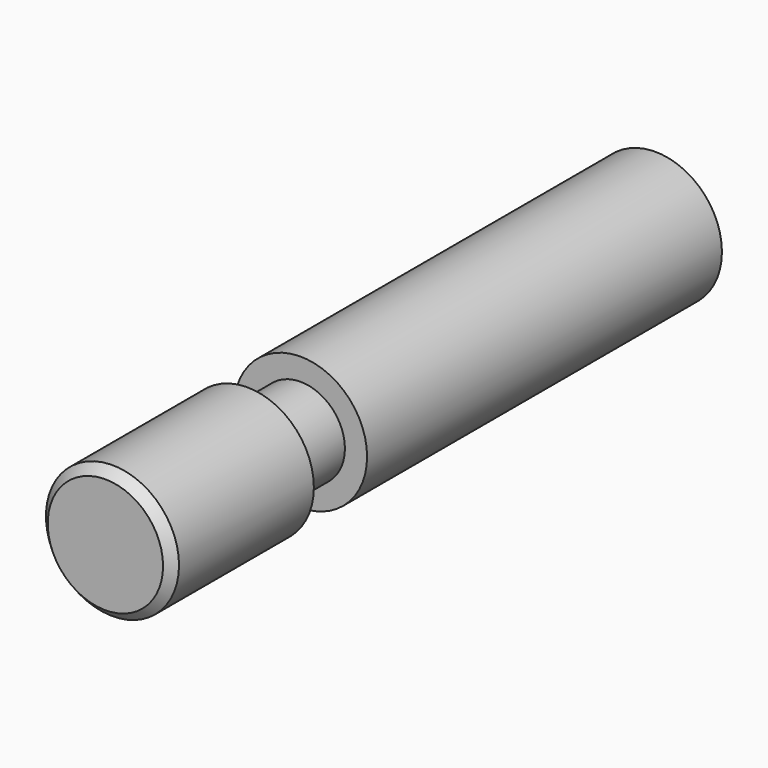
from build123d import *

# Parameters (mm, degrees)
F0_R     = 3
F1_DEPTH = 10
F2_R     = 2
F3_DEPTH = 3
F4_R     = 3
F5_DEPTH = 8
F6_SIZE  = 0.4


with BuildPart() as f1:
    # F0 (on Front) → F1 (new body, symmetric)
    with BuildSketch(Plane.XZ):
        Circle(F0_R)
    extrude(amount=F1_DEPTH, both=True)

    # F2 (on face) → F3 (join)
    with BuildSketch(Plane.XZ.offset(10)):
        Circle(F2_R)
    extrude(amount=F3_DEPTH)

    # F4 (on face) → F5 (join)
    with BuildSketch(Plane.XZ.offset(13)):
        Circle(F4_R)
    extrude(amount=F5_DEPTH)

    # F6
    f6_edges = [f1.edges().sort_by_distance(p)[0] for p in [
        (-3, -21, 0),
    ]]
    chamfer(f6_edges, length=F6_SIZE)


solid = f1.part
